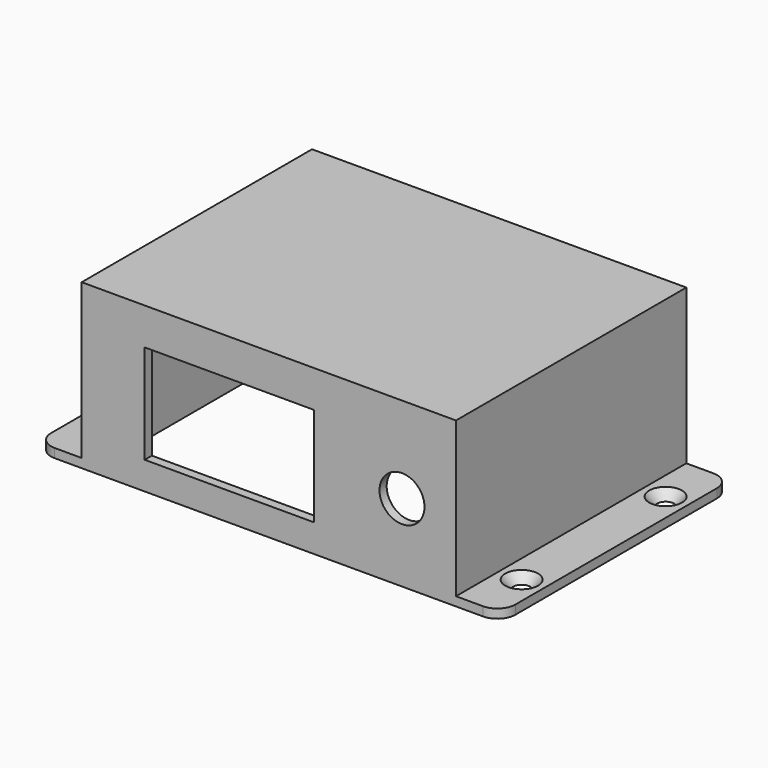
from build123d import *

# Parameters (mm, degrees)
F1_DEPTH       = 80
F0_W           = 99
F0_H           = 43
F0_W_2         = 47
F0_H_2         = 27.5
F0_R           = 6.25
F2_DEPTH       = 2.5
F4_D           = 4.4958
F4_CSINK_D     = 9.1186
F4_CSINK_ANGLE = 82
F5_R           = 5
F6_R           = 1.75
F7_DEPTH       = 5


with BuildPart() as f1:
    # F0 (on Front) → F1 (new body)
    with BuildSketch(Plane.XZ):
        Polygon((-15, -7.75), (-15, 35.25), (84, 35.25), (84, -7.75), (99, -7.75), (99, -5.25), (86.5, -5.25), (86.5, 37.75), (-17.5, 37.75), (-17.5, -5.25), (-30, -5.25), (-30, -7.75), align=None)
    extrude(amount=-F1_DEPTH)

    # F0 (on Front) → F2 (join)
    with BuildSketch(Plane.XZ):
        with Locations((34.5, 13.75)):
            Rectangle(F0_W, F0_H)
        with Locations((23.5, 13.75)):
            Rectangle(F0_W_2, F0_H_2, mode=Mode.SUBTRACT)
        with Locations((71.5, 13.75)):
            Circle(F0_R, mode=Mode.SUBTRACT)
    extrude(amount=-F2_DEPTH)

    # F4 (through all)
    with Locations(Plane.XY.offset(-5.25)):
        with Locations((-23.75, 65), (-23.75, 15), (92.75, 15), (92.75, 65)):
            CounterSinkHole(F4_D / 2, F4_CSINK_D / 2, counter_sink_angle=F4_CSINK_ANGLE)

    # F5
    f5_edges = [f1.edges().sort_by_distance(p)[0] for p in [
        (99, 0, -6.5),
        (-30, 0, -6.5),
        (99, 80, -6.5),
        (-30, 80, -6.5),
    ]]
    fillet(f5_edges, radius=F5_R)

    # F6 (on face) → F7 (join)
    with BuildSketch(Plane(origin=(0, 0, 35.25), x_dir=(1, 0, 0), z_dir=(0, 0, -1))):
        with Locations((-9.5, -75)):
            Circle(F6_R)
        with Locations((74.5, -75)):
            Circle(F6_R)
    extrude(amount=F7_DEPTH)


solid = f1.part
